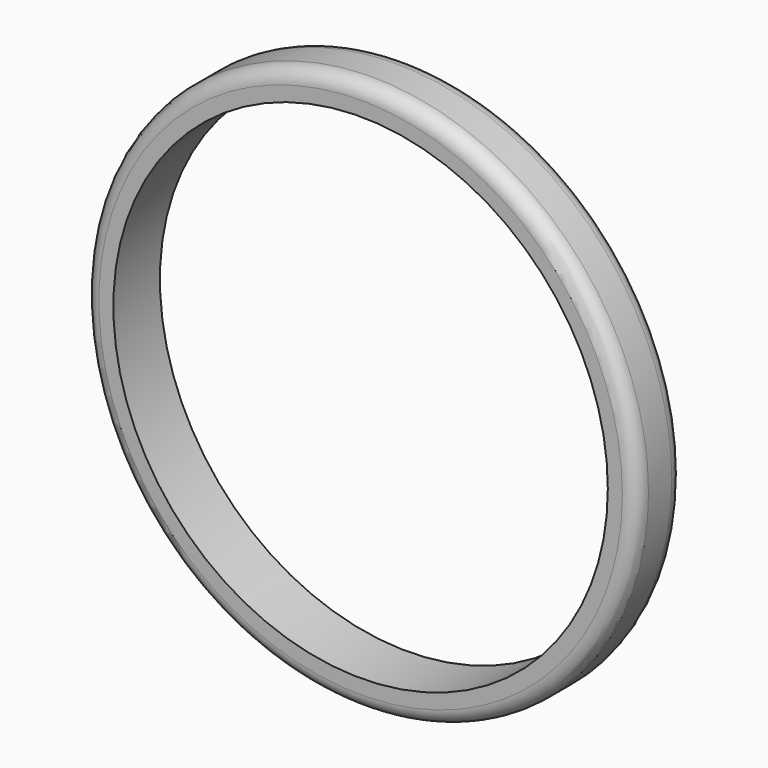
from build123d import *

# Parameters (mm, degrees)
F0_R     = 9.5
F1_DEPTH = 2
F2_R     = 8.5
F3_DEPTH = 2.001
F4_R     = 0.5


with BuildPart() as f1:
    # F0 (on Front) → F1 (new body)
    with BuildSketch(Plane.XZ):
        Circle(F0_R)
    extrude(amount=F1_DEPTH)

    # F2 (on face) → F3 (cut, through all)
    with BuildSketch(Plane.XZ.offset(2)):
        Circle(F2_R)
    extrude(amount=-F3_DEPTH, mode=Mode.SUBTRACT)

    # F4
    f4_edges = [f1.edges().sort_by_distance(p)[0] for p in [
        (-9.5, -2, 0),
        (-9.5, 0, 0),
    ]]
    fillet(f4_edges, radius=F4_R)


solid = f1.part
